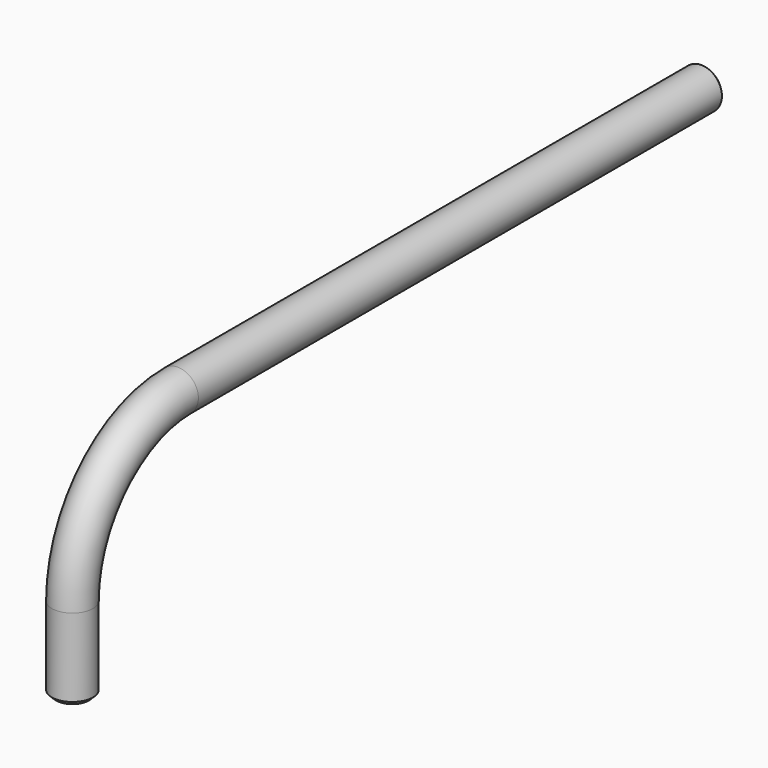
from build123d import *

# Parameters (mm, degrees)
F0_R     = 2.5
F3_SIZE2 = 0.5
F3_SIZE  = 0.5


with BuildPart() as f2:
    # F2: sweep along a path in F1
    with BuildLine(Plane.YZ) as f2_path:
        Line((0, 0), (0, 10))
        ThreePointArc((0, 10), (4.686291501, 21.313708499), (16, 26))
        Line((16, 26), (96, 26))
    # F0 (on Top) → F2 (sweep)
    with BuildSketch(Plane.XY):
        Circle(F0_R)
    sweep(path=f2_path.line)

    # F3
    f3_edges = [f2.edges().sort_by_distance(p)[0] for p in [
        (-2.5, 96, 26),
        (-2.5, 0, 0),
    ]]
    chamfer(f3_edges, length=F3_SIZE, length2=F3_SIZE2)


solid = f2.part
